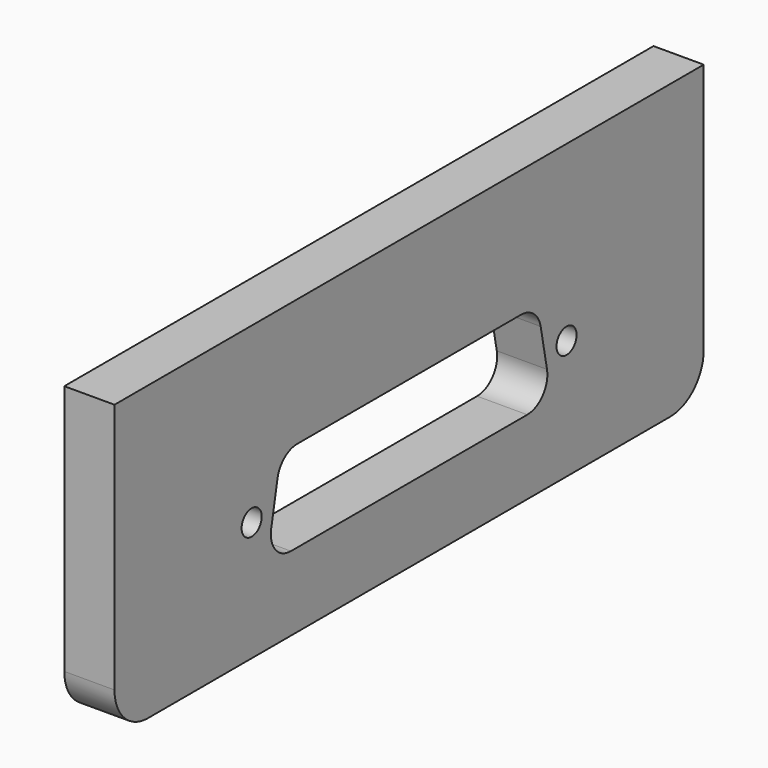
from build123d import *

# Parameters (mm, degrees)
F0_R     = 1.5
F1_DEPTH = 6


with BuildPart() as f1:
    # F0 (on Right) → F1 (new body)
    with BuildSketch(Plane.YZ):
        with BuildLine():
            Line((0, 2.430569), (-81, 2.430569))
            Line((-81, 2.430569), (-84.5, 2.430569))
            Line((-84.5, 2.430569), (-84.5, -12.069431))
            Line((-84.5, -12.069431), (-84.5, -19.569431))
            Line((-84.5, -19.569431), (-84.5, -27.569431))
            ThreePointArc((-84.5, -27.569431), (-83.035534, -31.104965), (-79.5, -32.569431))
            Line((-79.5, -32.569431), (-1.5, -32.569431))
            ThreePointArc((-1.5, -32.569431), (2.035534, -31.104965), (3.5, -27.569431))
            Line((3.5, -27.569431), (3.5, -19.569431))
            Line((3.5, -19.569431), (3.5, -10.569431))
            Line((3.5, -10.569431), (3.5, 2.430569))
            Line((3.5, 2.430569), (0, 2.430569))
        make_face()
        with Locations((-64.013368, -18.280404)):
            Circle(F0_R, mode=Mode.SUBTRACT)
        with BuildLine():
            Line((-61.09583, -20.111927), (-60.150184, -15.211927))
            ThreePointArc((-60.150184, -15.211927), (-59.114324, -13.466811), (-57.204538, -12.780404))
            Line((-57.204538, -12.780404), (-23.79583, -12.780404))
            ThreePointArc((-23.79583, -12.780404), (-21.886044, -13.466811), (-20.850184, -15.211927))
            Line((-20.850184, -15.211927), (-19.904538, -20.111927))
            ThreePointArc((-19.904538, -20.111927), (-20.53659, -22.590191), (-22.850184, -23.680404))
            Line((-22.850184, -23.680404), (-58.150184, -23.680404))
            ThreePointArc((-58.150184, -23.680404), (-60.463778, -22.590191), (-61.09583, -20.111927))
        make_face(mode=Mode.SUBTRACT)
        with Locations((-16.987, -18.280404)):
            Circle(F0_R, mode=Mode.SUBTRACT)
    extrude(amount=-F1_DEPTH)


solid = f1.part
